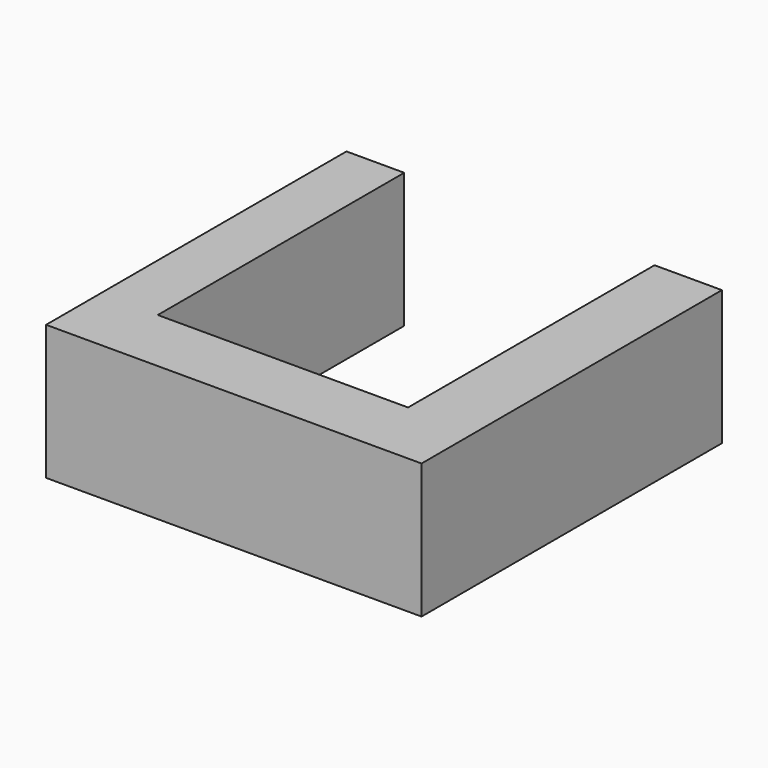
from build123d import *

# Parameters (mm, degrees)
BOX_W           = 37
BOX_H           = 39
BOX_DEPTH       = 14
SKETCH_W        = 26
SKETCH_H        = 32
POCKET_DEPTH    = 15
SKETCH001_W     = 2.3
SKETCH001_H     = 8.3
POCKET001_DEPTH = 34
SKETCH002_W     = 39
SKETCH002_H     = 14
PAD001_DEPTH    = 2


with BuildPart() as part:
    # Box → Box (new body)
    with BuildSketch(Plane(origin=(-14, -33, -31), x_dir=(1, 0, 0), z_dir=(0, 0, 1))):
        with Locations((18.5, 19.5)):
            Rectangle(BOX_W, BOX_H)
    extrude(amount=BOX_DEPTH)

    # Sketch → Pocket (cut)
    with BuildSketch(Plane(origin=(-14, -33, -31), x_dir=(1, 0, 0), z_dir=(0, 0, -1))):
        with Locations((19, -23)):
            Rectangle(SKETCH_W, SKETCH_H)
    extrude(amount=-POCKET_DEPTH, mode=Mode.SUBTRACT)

    # Sketch001 → Pocket001 (cut)
    with BuildSketch(Plane(origin=(-14, 6, -31), x_dir=(-1, 0, 0), z_dir=(0, 1, 0))):
        with Locations((-35.75, 7.064953)):
            Rectangle(SKETCH001_W, SKETCH001_H)
    extrude(amount=-POCKET001_DEPTH, mode=Mode.SUBTRACT)

    # Sketch002 → Pad001 (new body)
    with BuildSketch(Plane(origin=(23, -33, -31), x_dir=(0, 1, 0), z_dir=(1, 0, 0))):
        with Locations((19.5, 7)):
            Rectangle(SKETCH002_W, SKETCH002_H)
    extrude(amount=PAD001_DEPTH)


solid = part.part
